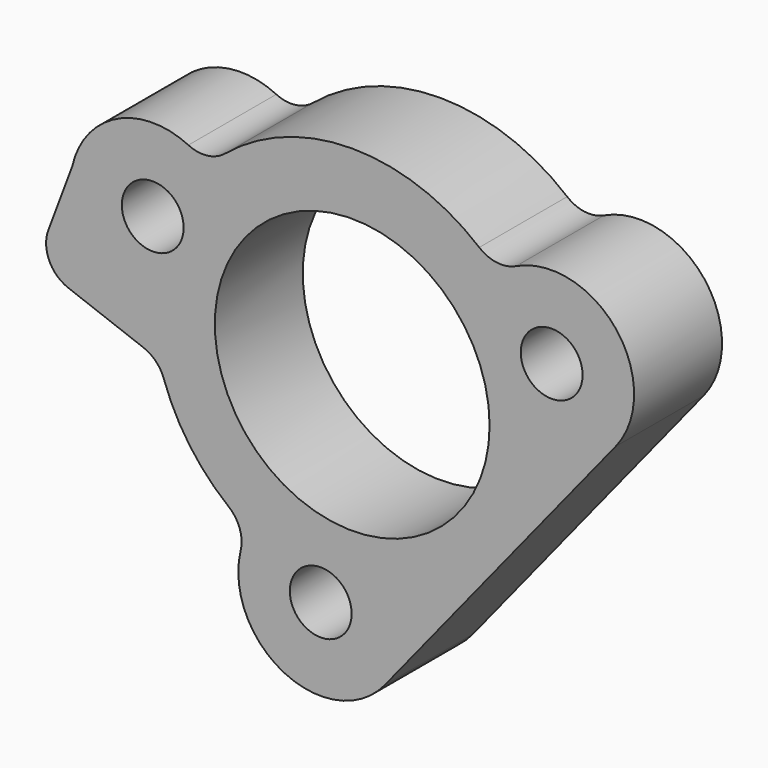
from build123d import *

# Parameters (mm, degrees)
F0_R     = 20
F1_DEPTH = 16
F2_D     = 9


with BuildPart() as f1:
    # F0 (on Front) → F1 (new body)
    with BuildSketch(Plane.XZ):
        with BuildLine():
            ThreePointArc((-30.3928510428, -6.3968226045), (-28.562967972, -7.5906259687), (-27.4168456036, -9.4507447933))
            ThreePointArc((-27.4168456036, -9.4507447933), (-23.6605152057, -16.7684233069), (-18.0006967285, -22.7370824269))
            ThreePointArc((-18.0006967285, -22.7370824269), (-16.3768862519, -25.0288069118), (-16.2448023697, -27.8343933793))
            ThreePointArc((-16.2448023697, -27.8343933793), (-9.9005108102, -41.4165554271), (4.7436597925, -38.2113364568))
            Line((4.7436597925, -38.2113364568), (38.3625894042, 3.3045841264))
            ThreePointArc((38.3625894042, 3.3045841264), (38.4530723792, 18.2951469617), (23.8486607741, 21.6769102527))
            ThreePointArc((23.8486607741, 21.6769102527), (21.076921319, 21.222793559), (18.4976673308, 22.3346435682))
            ThreePointArc((18.4976673308, 22.3346435682), (0, 29), (-18.4976673308, 22.3346435682))
            ThreePointArc((-18.4976673308, 22.3346435682), (-21.076921319, 21.222793559), (-23.8486607741, 21.6769102527))
            ThreePointArc((-23.8486607741, 21.6769102527), (-34.2706182279, 21.6549260816), (-40.7447903835, 13.4877493741))
            Line((-40.7447903835, 13.4877493741), (-44.2468641961, 4.1210274816))
            ThreePointArc((-44.2468641961, 4.1210274816), (-44.1133096043, 0.296524362), (-41.3145401562, -2.3133703709))
            Line((-41.3145401562, -2.3133703709), (-30.3928510428, -6.3968226045))
        make_face()
        Circle(F0_R, mode=Mode.SUBTRACT)
    extrude(amount=F1_DEPTH)

    # F2 (through all)
    with Locations(Plane(origin=(0, 0, 0), x_dir=(1, 0, 0), z_dir=(0, 1, 0))):
        with Locations((29.0368378667, -10.856428819), (-29.0368378667, -10.856428819), (-4.582091745, 30.6594917642)):
            Hole(F2_D / 2)


solid = f1.part
